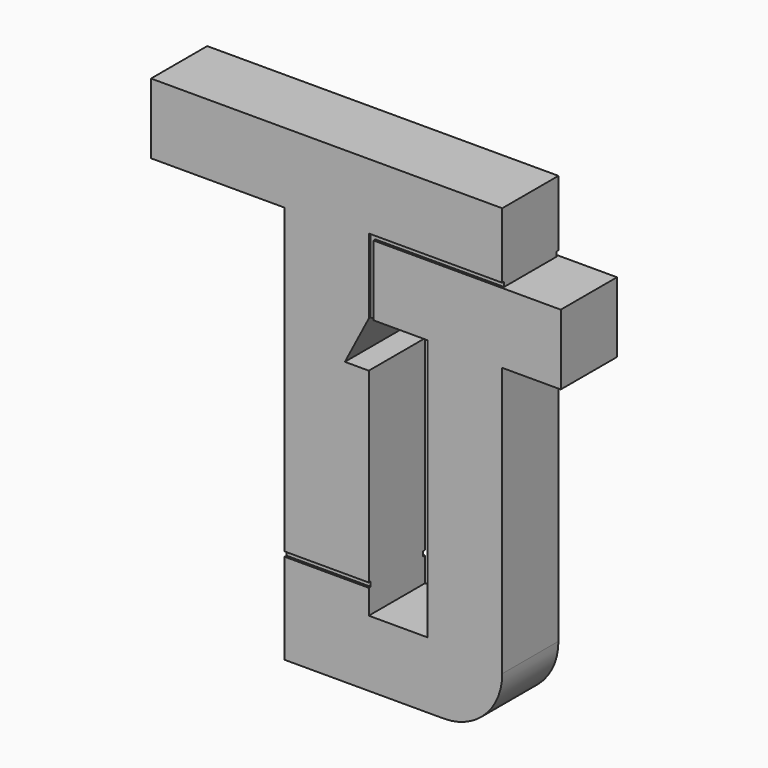
from build123d import *

# Parameters (mm, degrees)
F0_W     = 9.144
F0_H     = 0.508
F1_DEPTH = 7.62
F2_DEPTH = 7.366
F3_DEPTH = 0.254
F4_W     = 9.144
F4_H     = 0.508
F5_DEPTH = 0.254


with BuildPart() as f1:
    # F0 (on Front) → F1 (new body)
    with BuildSketch(Plane.XZ):
        Polygon((-10.693384, 33.075266), (-48.793384, 33.075266), (-48.793384, 25.455266), (-34.315384, 25.455266), (-34.315384, -7.374234), (-25.171384, -7.374234), (-25.171384, 12.856693), (-27.764196, 12.856693), (-25.171384, 17.835266), (-25.171384, 25.137766), (-25.171384, 25.455266), (-25.171384, 25.963266), (-10.693384, 25.963266), align=None)
        with Locations((-29.743384, -7.628234)):
            Rectangle(F0_W, F0_H)
        with BuildLine():
            Line((-4.343384, 25.455266), (-10.693384, 25.455266))
            Line((-10.693384, 25.455266), (-24.663384, 25.455266))
            Line((-24.663384, 25.455266), (-24.663384, 17.835266))
            Line((-24.663384, 17.835266), (-18.821384, 17.835266))
            Line((-18.821384, 17.835266), (-18.821384, -10.542493))
            Line((-18.821384, -10.542493), (-25.171384, -10.542493))
            Line((-25.171384, -10.542493), (-25.171384, -7.882234))
            Line((-25.171384, -7.882234), (-34.315384, -7.882234))
            Line((-34.315384, -7.882234), (-34.315384, -17.724734))
            Line((-34.315384, -17.724734), (-17.043384, -17.724734))
            ThreePointArc((-17.043384, -17.724734), (-12.553256, -15.864862), (-10.693384, -11.374734))
            Line((-10.693384, -11.374734), (-10.693384, 17.835266))
            Line((-10.693384, 17.835266), (-4.343384, 17.835266))
            Line((-4.343384, 17.835266), (-4.343384, 25.455266))
        make_face()
    extrude(amount=-F1_DEPTH)

    # F0 (on Front) → F2 (join)
    with BuildSketch(Plane.XZ):
        Polygon((-10.693384, 25.455266), (-10.693384, 25.963266), (-25.171384, 25.963266), (-25.171384, 25.455266), (-24.663384, 25.455266), align=None)
        Polygon((-24.663384, 25.455266), (-25.171384, 25.455266), (-25.171384, 25.137766), (-25.171384, 17.835266), (-24.663384, 17.835266), align=None)
        with Locations((-29.743384, -7.628234)):
            Rectangle(F0_W, F0_H)
    extrude(amount=-F2_DEPTH)

    # F0 (on Front) → F3 (cut)
    with BuildSketch(Plane.XZ):
        Polygon((-24.663384, 25.455266), (-25.171384, 25.455266), (-25.171384, 25.137766), (-25.171384, 17.835266), (-24.663384, 17.835266), align=None)
        Polygon((-10.693384, 25.455266), (-10.693384, 25.963266), (-25.171384, 25.963266), (-25.171384, 25.455266), (-24.663384, 25.455266), align=None)
        with Locations((-29.743384, -7.628234)):
            Rectangle(F0_W, F0_H)
    extrude(amount=-F3_DEPTH, mode=Mode.SUBTRACT)

    # F4 (on face) → F5 (cut)
    with BuildSketch(Plane(origin=(0, 7.62, 0), x_dir=(-1, 0, 0), z_dir=(0, 1, 0))):
        with Locations((29.743384, -7.62705)):
            Rectangle(F4_W, F4_H)
    extrude(amount=-F5_DEPTH, mode=Mode.SUBTRACT)


solid = f1.part
